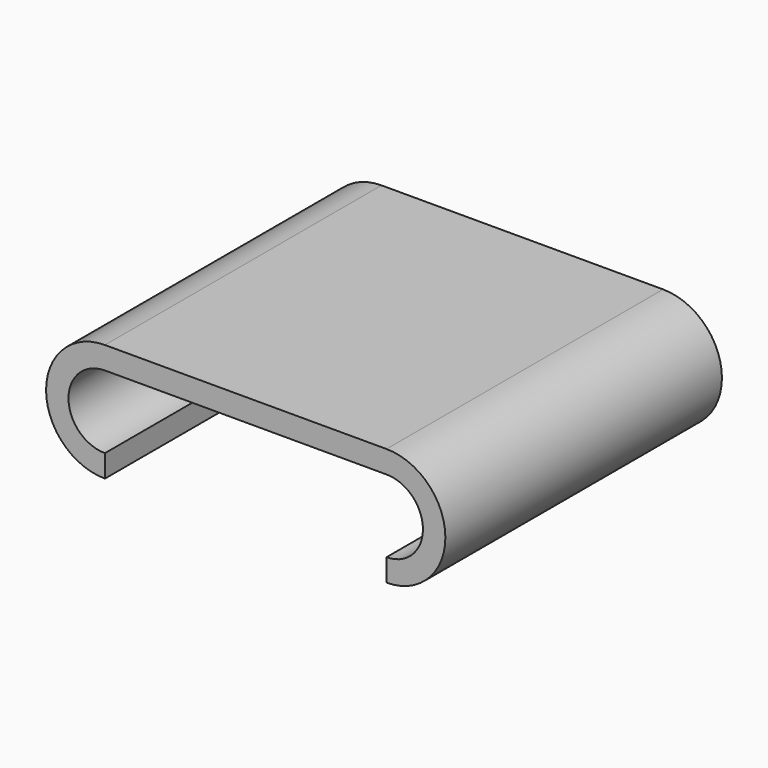
from build123d import *

# Parameters (mm, degrees)
F0_W     = 103.454666
F0_H     = 8.235528
F1_DEPTH = 127


with BuildPart() as f1:
    # F0 (on Front) → F1 (new body)
    with BuildSketch(Plane.XZ):
        Rectangle(F0_W, F0_H)
        with BuildLine():
            Line((51.727333, 4.117764), (51.727333, -4.117764))
            ThreePointArc((51.727333, -4.117764), (65.103529, -17.49396), (51.727333, -30.870155))
            Line((51.727333, -30.870155), (51.727333, -39.105684))
            ThreePointArc((51.727333, -39.105684), (73.339057, -17.49396), (51.727333, 4.117764))
        make_face()
        with BuildLine():
            ThreePointArc((-51.727333, -30.870155), (-65.103529, -17.49396), (-51.727333, -4.117764))
            Line((-51.727333, -4.117764), (-51.727333, 4.117764))
            ThreePointArc((-51.727333, 4.117764), (-73.339057, -17.49396), (-51.727333, -39.105684))
            Line((-51.727333, -39.105684), (-51.727333, -30.870155))
        make_face()
    extrude(amount=F1_DEPTH)


solid = f1.part
